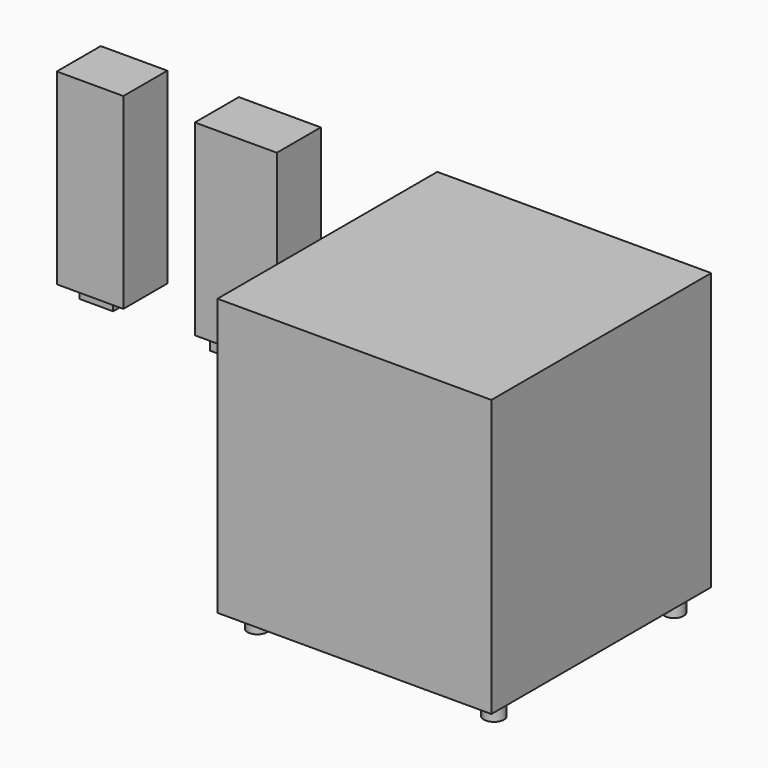
from build123d import *

# Parameters (mm, degrees)
F0_W     = 126.6323775053
F0_H     = 127.8355270624
F1_DEPTH = 25.4
F0_W_2   = 37.8994643688
F0_H_2   = 86.6273678839
F0_W_3   = 30.7692587376
F2_DEPTH = 101.6
F3_W     = 15.5248641968
F3_H     = 11.7775034159
F4_DEPTH = 6.858
F3_W_2   = 26.2317061424
F3_H_2   = 16.0602321848
F5_R     = 4.5443578582
F5_R_2   = 4.6257420085
F5_R_3   = 3.6438747626
F5_R_4   = 4.4430866935
F6_DEPTH = 7.62


with BuildPart() as f1:
    # F0 (on Front) → F1 (new body)
    with BuildSketch(Plane.XZ):
        Rectangle(F0_W, F0_H)
    extrude(amount=F1_DEPTH)

    # F2 (add): a face of the model
    f2_faces = [f1.faces().sort_by_distance(p)[0] for p in [
        (0, -25.4, 0),
    ]]
    extrude(f2_faces, amount=F2_DEPTH)

    # F5 (on face) → F6 (join)
    with BuildSketch(Plane(origin=(0, 0, -63.9177635312), x_dir=(1, 0, 0), z_dir=(0, 0, -1))):
        with Locations((-53.5289533436, 116.1880940199)):
            Circle(F5_R)
        with Locations((55.8334104717, 116.1880940199)):
            Circle(F5_R_2)
        with Locations((-53.5289533436, 12.3743349686)):
            Circle(F5_R_3)
        with Locations((56.0211203992, 12.3743349686)):
            Circle(F5_R_4)
    extrude(amount=F6_DEPTH)


with BuildPart() as f1b:
    # F0 (on Front) → F1, piece 2 (new body)
    with BuildSketch(Plane.XZ):
        with Locations((-136.1072361469, 21.2056580931)):
            Rectangle(F0_W_2, F0_H_2)
    extrude(amount=F1_DEPTH)

    # F3 (on face) → F4, piece 2 (join)
    with BuildSketch(Plane(origin=(0, 0, -22.1080258489), x_dir=(1, 0, 0), z_dir=(0, 0, -1))):
        with Locations((-138.3213549852, 13.0286077037)):
            Rectangle(F3_W_2, F3_H_2)
    extrude(amount=F4_DEPTH)


with BuildPart() as f1c:
    # F0 (on Front) → F1, piece 3 (new body)
    with BuildSketch(Plane.XZ):
        with Locations((-203.4813016653, 21.2056580931)):
            Rectangle(F0_W_3, F0_H_2)
    extrude(amount=F1_DEPTH)

    # F3 (on face) → F4 (join)
    with BuildSketch(Plane(origin=(0, 0, -22.1080258489), x_dir=(1, 0, 0), z_dir=(0, 0, -1))):
        with Locations((-205.7743221521, 13.0286077037)):
            Rectangle(F3_W, F3_H)
    extrude(amount=F4_DEPTH)


solid = Compound([f1.part, f1b.part, f1c.part])
